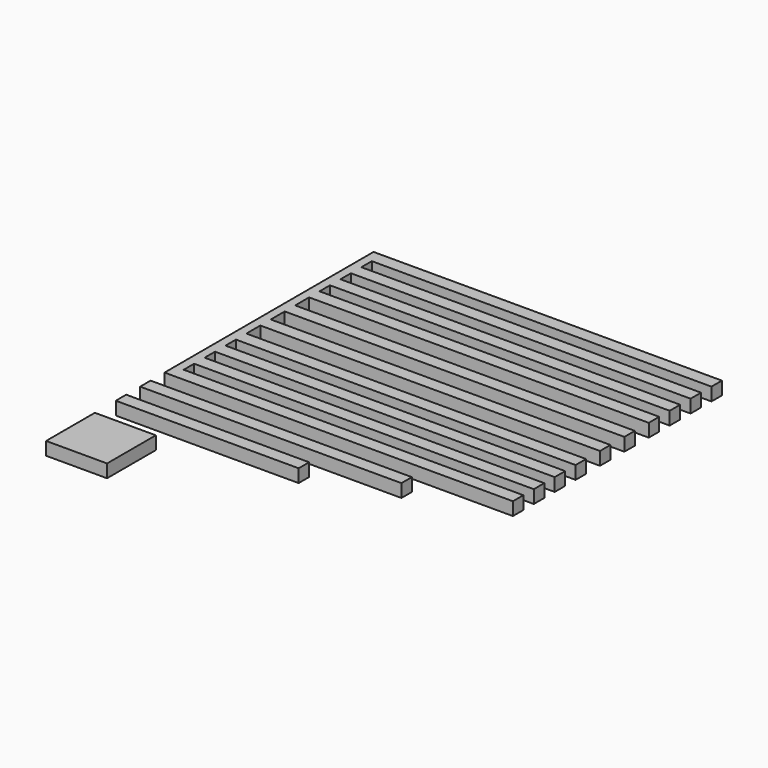
from build123d import *

# Parameters (mm, degrees)
F0_W     = 508
F0_H     = 381
F1_DEPTH = 19.05
F2_W     = 495.3
F2_H     = 19.05
F2_H_2   = 25.4
F2_W_2   = 482.6
F2_W_3   = 12.7
F3_DEPTH = 25.4
F4_W     = 381
F4_H     = 19.05
F4_W_2   = 266.7
F4_W_3   = 88.9
F4_H_2   = 88.9
F5_DEPTH = 19.05


with BuildPart() as f1:
    # F0 (on Top) → F1 (new body)
    with BuildSketch(Plane.XY):
        with Locations((254, 190.5)):
            Rectangle(F0_W, F0_H)
    extrude(amount=F1_DEPTH)

    # F2 (on face) → F3 (cut)
    with BuildSketch(Plane.XY.offset(19.05)):
        with Locations((260.35, 28.575)):
            Rectangle(F2_W, F2_H)
        with Locations((260.35, 66.675)):
            Rectangle(F2_W, F2_H)
        with Locations((260.35, 104.775)):
            Rectangle(F2_W, F2_H)
        with Locations((260.35, 146.05)):
            Rectangle(F2_W, F2_H_2)
        with Locations((260.35, 190.5)):
            Rectangle(F2_W, F2_H_2)
        with Locations((260.35, 234.95)):
            Rectangle(F2_W, F2_H_2)
        with Locations((260.35, 276.225)):
            Rectangle(F2_W, F2_H)
        with Locations((260.35, 314.325)):
            Rectangle(F2_W, F2_H)
        with Locations((254, 352.425)):
            Rectangle(F2_W_2, F2_H)
        with Locations((501.65, 352.425)):
            Rectangle(F2_W_3, F2_H)
    extrude(amount=-F3_DEPTH, mode=Mode.SUBTRACT)


with BuildPart() as f5:
    # F4 (on Top) → F5 (new body)
    with BuildSketch(Plane.XY):
        with Locations((190.5, -34.925)):
            Rectangle(F4_W, F4_H)
        with Locations((133.35, -79.375)):
            Rectangle(F4_W_2, F4_H)
        with Locations((44.45, -171.45)):
            Rectangle(F4_W_3, F4_H_2)
    extrude(amount=F5_DEPTH)


solid = Compound([f1.part, f5.part])
